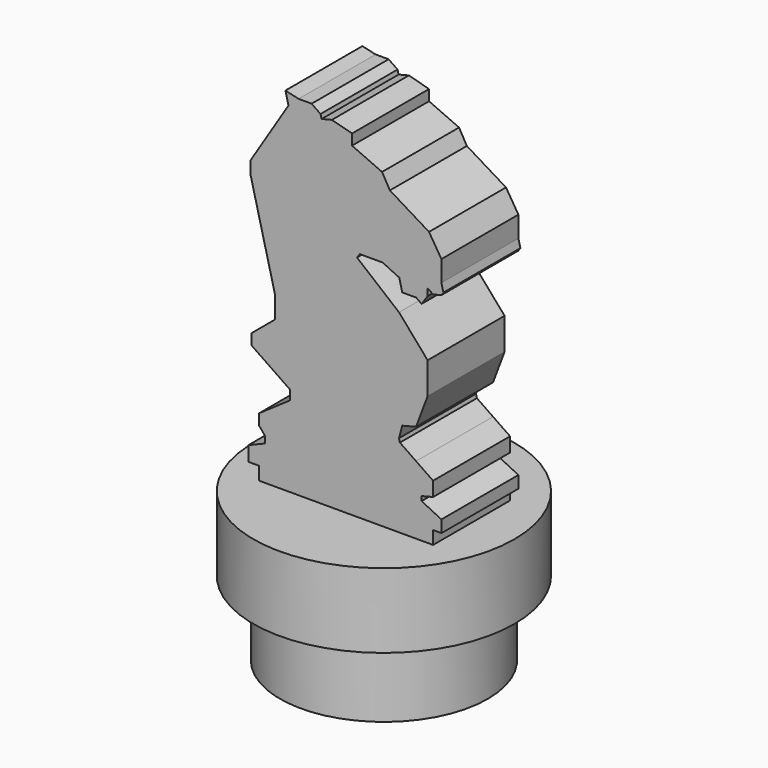
from build123d import *

# Parameters (mm, degrees)
F1_DEPTH = 12.9
F2_R     = 17.5
F3_DEPTH = 10
F4_R     = 13.9355
F5_DEPTH = 10


with BuildPart() as f1:
    # F0 (on Front) → F1 (new body)
    with BuildSketch(Plane.XZ):
        Polygon((-13.491611, -11.113448), (0, -11.113448), (9.827, -11.113448), (9.827, -9.355818), (10.943413, -9.355818), (10.943413, -7.737426), (8.289084, -6.434524), (8.289084, -5.843352), (9.827, -5.457411), (9.827, -3.530073), (7.544932, -1.963569), (5.381204, -0.478298), (5.261175, 0), (5.69396, 1.623498), (7.544932, 2.088001), (9.09538, 6.213676), (9.09538, 10.447838), (5.261175, 14.860648), (-0.365813, 19.485754), (0, 20.018667), (3.075247, 20.018667), (5.29399, 18.955297), (5.698295, 17.344206), (7.544932, 17.344206), (8.289084, 16.83339), (9.09538, 18.007995), (9.09538, 18.955297), (9.827, 18.453084), (10.943413, 18.733248), (11.211763, 19.124179), (10.943413, 20.193515), (10.943413, 21.15518), (10.943413, 21.767149), (10.943413, 22.991084), (9.282355, 25.65752), (4.036912, 28.848497), (2.987823, 30.684402), (-1.033684, 32.476597), (-1.033684, 33.919092), (-3.738808, 34.642849), (-5.1175, 34.296865), (-5.254929, 34.844498), (-6.453976, 35.667572), (-8.202457, 35.667572), (-9.967883, 36.078834), (-9.557529, 34.443635), (-14.647621, 26.313199), (-14.647621, 24.636446), (-14.234716, 22.991084), (-11.349722, 11.494819), (-11.349722, 8.609826), (-14.5407, 5.943392), (-14.5407, 4.544607), (-9.38268, 1.003933), (-9.38268, -0.307428), (-13.491611, -3.14871), (-13.491611, -4.634919), (-12.704795, -5.552872), (-12.704795, -6.470824), (-14.934109, -7.388777), (-14.934109, -9.355818), (-13.491611, -9.355818), align=None)
    extrude(amount=F1_DEPTH)

    # F2 (on face) → F3 (join)
    with BuildSketch(Plane(origin=(0, 0, -11.113448), x_dir=(1, 0, 0), z_dir=(0, 0, -1))):
        with Locations((-1.832305, 6.564944)):
            Circle(F2_R)
    extrude(amount=F3_DEPTH)

    # F4 (on face) → F5 (join)
    with BuildSketch(Plane(origin=(0, 0, -21.113448), x_dir=(1, 0, 0), z_dir=(0, 0, -1))):
        with Locations((-1.832305, 6.564944)):
            Circle(F4_R)
    extrude(amount=F5_DEPTH)


solid = f1.part
